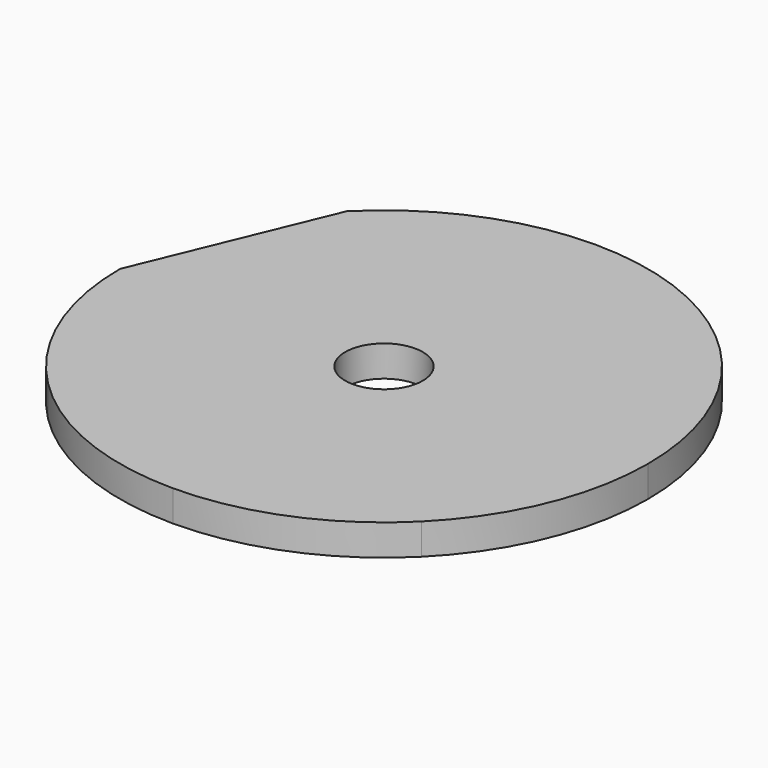
from build123d import *

# Parameters (mm, degrees)
F0_R     = 2.5
F1_DEPTH = 2


with BuildPart() as f1:
    # F0 (on Top) → F1 (new body)
    with BuildSketch(Plane.XY):
        Polygon((-12.020815, 12.020815), (-17, 0), (-12.020815, -12.020815), (0, -17), (12.020815, -12.020815), (17, 0), (12.020815, 12.020815), (0, 17), align=None)
        Circle(F0_R, mode=Mode.SUBTRACT)
        with BuildLine():
            Line((-12.020815, -12.020815), (-17, 0))
            ThreePointArc((-17, 0), (-15.705952, -6.505618), (-12.020815, -12.020815))
        make_face()
        with BuildLine():
            Line((0, -17), (-12.020815, -12.020815))
            ThreePointArc((-12.020815, -12.020815), (-6.505618, -15.705952), (0, -17))
        make_face()
        with BuildLine():
            ThreePointArc((12.020815, 12.020815), (6.505618, 15.705952), (0, 17))
            Line((0, 17), (12.020815, 12.020815))
        make_face()
        with BuildLine():
            ThreePointArc((0, 17), (-6.505618, 15.705952), (-12.020815, 12.020815))
            Line((-12.020815, 12.020815), (0, 17))
        make_face()
        with BuildLine():
            Line((12.020815, -12.020815), (0, -17))
            ThreePointArc((0, -17), (6.505618, -15.705952), (12.020815, -12.020815))
        make_face()
        with BuildLine():
            Line((17, 0), (12.020815, -12.020815))
            ThreePointArc((12.020815, -12.020815), (15.705952, -6.505618), (17, 0))
        make_face()
        with BuildLine():
            ThreePointArc((17, 0), (15.705952, 6.505618), (12.020815, 12.020815))
            Line((12.020815, 12.020815), (17, 0))
        make_face()
    extrude(amount=F1_DEPTH)


solid = f1.part
